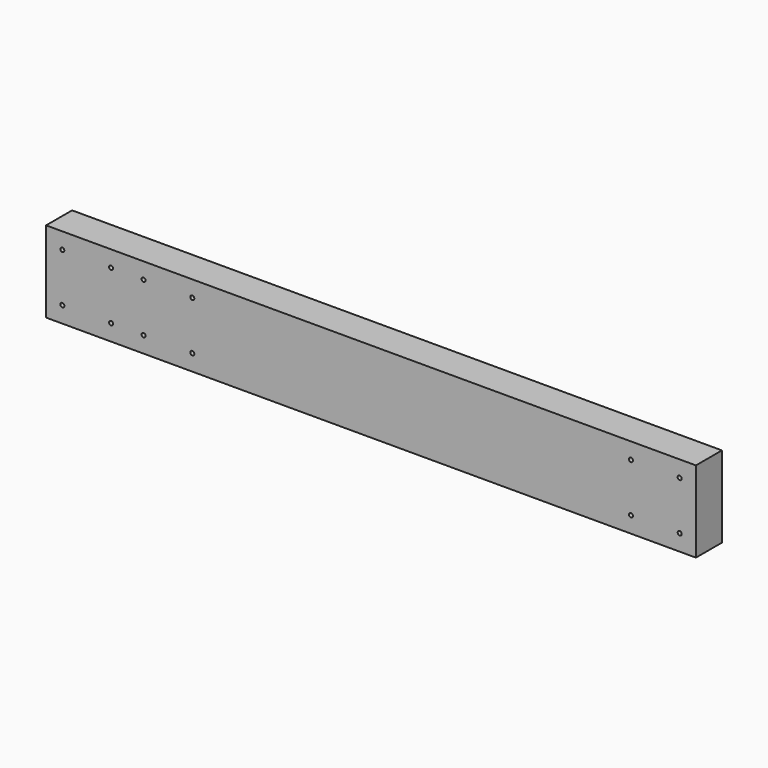
from build123d import *

# Parameters (mm, degrees)
F0_W     = 800
F0_H     = 100
F1_DEPTH = 20
F3_D     = 5


with BuildPart() as f1:
    # F0 (on Front) → F1 (new body, symmetric)
    with BuildSketch(Plane.XZ):
        Rectangle(F0_W, F0_H)
    extrude(amount=F1_DEPTH, both=True)

    # F3 (through all)
    with Locations(Plane.XZ.offset(20)):
        with Locations((-380, 30), (-380, -30), (-320, 30), (-320, -30), (-280, 30), (-280, -30), (-220, -30), (-220, 30), (380, 30), (320, 30), (320, -30), (380, -30)):
            Hole(F3_D / 2)


solid = f1.part
